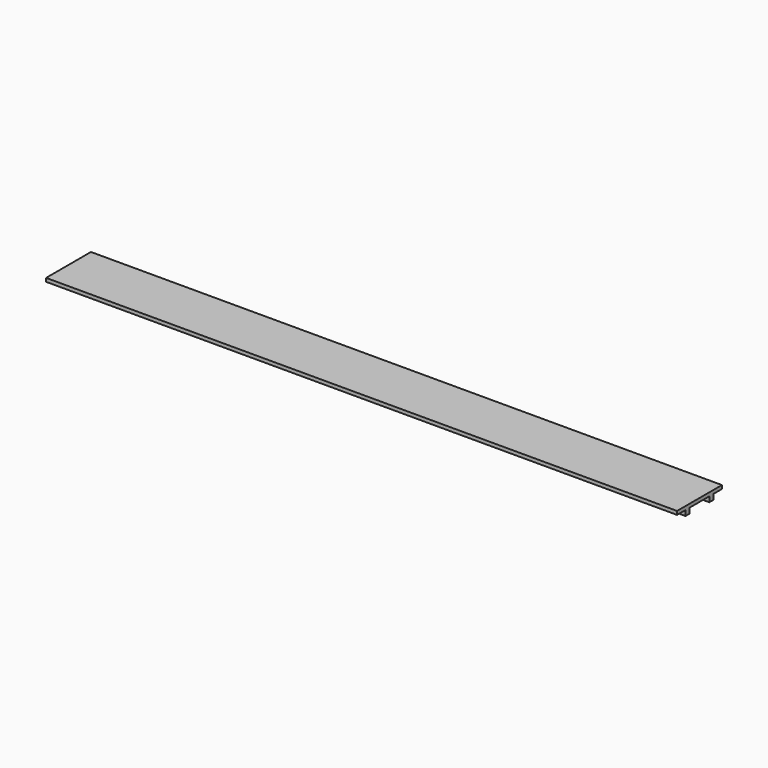
from build123d import *

# Parameters (mm, degrees)
F1_DEPTH = 1143


with BuildPart() as f1:
    # F0 (on Right) → F1 (new body, symmetric)
    with BuildSketch(Plane.YZ):
        Polygon((101.6, 12.7), (-101.6, 12.7), (-101.6, 0), (-63.5, 0), (-63.5, -19.05), (-44.45, -19.05), (-44.45, 0), (44.45, 0), (44.45, -19.05), (63.5, -19.05), (63.5, 0), (101.6, 0), align=None)
    extrude(amount=F1_DEPTH, both=True)


solid = f1.part
